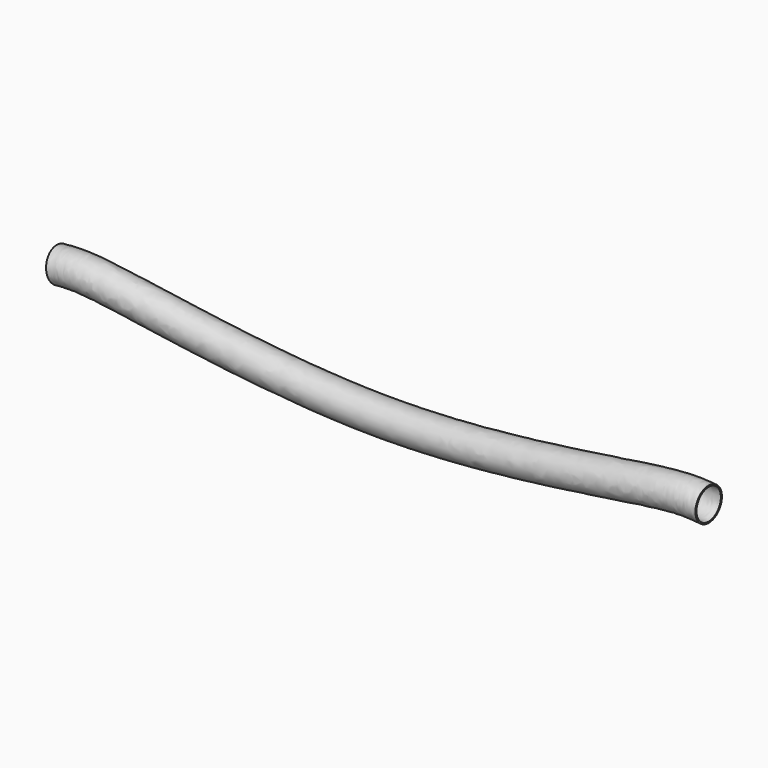
from build123d import *

# Parameters (mm, degrees)
F2_R   = 25
F2_R_2 = 23


with BuildPart() as f3:
    # F3: sweep along a path in F0
    with BuildLine(Plane.XZ) as f3_path:
        add(Plane.XZ * Edge.make_bspline(
            [(-495.9835258871, 16.9855002314), (-482.8459463337, 18.1649931133), (-431.3638835713, 22.7870565863), (1.2306334857, -63.2896938807), (415.0021895894, 23.0667670629), (469.5232285912, 18.2625879224), (484.0164741129, 16.9855002314)],
            knots=[0, 0, 0, 0, 0.1278352953, 0.5009465153, 0.8673373653, 1, 1, 1, 1], degree=3))
    # F2 (on plane+point) → F3 (sweep)
    with BuildSketch(Plane.YZ.offset(484.0164741129)):
        with Locations((0, 16.9855002314)):
            Circle(F2_R)
        with Locations((0, 16.9855002314)):
            Circle(F2_R_2, mode=Mode.SUBTRACT)
    sweep(path=f3_path.line)


solid = f3.part
